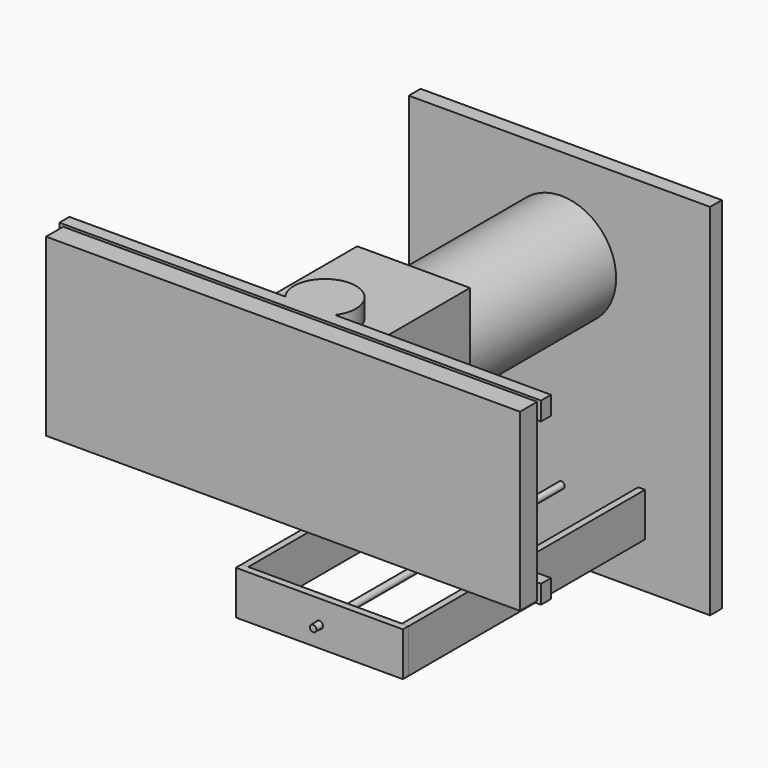
from build123d import *

# Parameters (mm, degrees)
F0_W      = 103.5620048642
F0_H      = 123.6062645912
F1_DEPTH  = 5.08
F2_R      = 18.8091173836
F3_DEPTH  = 63.5
F4_W      = 38.7522298843
F4_H      = 49.1084344685
F5_DEPTH  = 38.1
F6_W      = 2.3384951055
F6_H      = 15.0331929326
F7_DEPTH  = 101.6
F8_W      = 2.4352195215
F8_H      = 15.0823108852
F9_DEPTH  = 57.4294
F11_D     = 2.54
F13_DEPTH = 6.35
F15_DEPTH = 6.35
F16_W     = 165.5515879393
F16_H     = 4.3119760611
F17_DEPTH = 6.35
F18_W     = 165.5515879393
F18_H     = 4.3119760611
F19_DEPTH = 6.35
F20_W     = 162.9079505801
F20_H     = 60.2563126013
F21_DEPTH = 7.366
F22_R     = 1.1452971847
F23_DEPTH = 106.68


with BuildPart() as f1:
    # F0 (on Front) → F1 (new body)
    with BuildSketch(Plane.XZ):
        with Locations((-0.6681419909, -3.6747828126)):
            Rectangle(F0_W, F0_H)
    extrude(amount=F1_DEPTH)

    # F6 (on face) → F7 (join)
    with BuildSketch(Plane.XZ.offset(5.08)):
        with Locations((-27.5608561933, -42.2599799931)):
            Rectangle(F6_W, F6_H)
        with Locations((27.5608561933, -42.2599799931)):
            Rectangle(F6_W, F6_H)
    extrude(amount=F7_DEPTH)

    # F22 (on face) → F23 (join)
    with BuildSketch(Plane.XZ.offset(5.08)):
        with Locations((0, -42.667184025)):
            Circle(F22_R)
    extrude(amount=F23_DEPTH)


with BuildPart() as f3:
    # F2 (on face) → F3 (new body)
    with BuildSketch(Plane.XZ.offset(5.08)):
        with Locations((0, 26.0575376451)):
            Circle(F2_R)
    extrude(amount=F3_DEPTH)


with BuildPart() as f5:
    # F4 (on face) → F5 (new body)
    with BuildSketch(Plane.XZ.offset(68.58)):
        with Locations((-9.313e-07, 24.5542172343)):
            Rectangle(F4_W, F4_H)
    extrude(amount=F5_DEPTH)

    # F12 (on face) → F13 (join)
    with BuildSketch(Plane.XY.offset(49.1084344685)):
        with BuildLine():
            Line((-10.6464871968, -106.68), (10.6464853342, -106.68))
            ThreePointArc((10.6464853342, -106.68), (-9.313e-07, -96.0335137345), (-10.6464871968, -106.68))
        make_face()
        with BuildLine():
            ThreePointArc((-10.6464871968, -106.68), (-9.313e-07, -117.3264862655), (10.6464853342, -106.68))
            Line((10.6464853342, -106.68), (-10.6464871968, -106.68))
        make_face()
    extrude(amount=F13_DEPTH)

    # F14 (on face) → F15 (join)
    with BuildSketch(Plane(origin=(0, 0, 0), x_dir=(1, 0, 0), z_dir=(0, 0, -1))):
        with BuildLine():
            ThreePointArc((-10.6426009313, 106.68), (-9.313e-07, 96.0374), (10.6425990687, 106.68))
            Line((10.6425990687, 106.68), (-10.6426009313, 106.68))
        make_face()
        with BuildLine():
            Line((-10.6426009313, 106.68), (10.6425990687, 106.68))
            ThreePointArc((10.6425990687, 106.68), (-9.313e-07, 117.3226), (-10.6426009313, 106.68))
        make_face()
    extrude(amount=F15_DEPTH)

    # F16 (on face) → F17 (join)
    with BuildSketch(Plane.XY):
        with Locations((0, -115.1666119695)):
            Rectangle(F16_W, F16_H)
    extrude(amount=-F17_DEPTH)

    # F18 (on face) → F19 (join)
    with BuildSketch(Plane.XY.offset(55.4584344685)):
        with Locations((9.313e-07, -115.170498235)):
            Rectangle(F18_W, F18_H)
    extrude(amount=-F19_DEPTH)


with BuildPart() as f9:
    # F8 (on face) → F9 (new body)
    with BuildSketch(Plane.YZ.offset(28.7301037461)):
        with Locations((-107.8976097608, -42.2354210168)):
            Rectangle(F8_W, F8_H)
    extrude(amount=-F9_DEPTH)

    # F11 (through all)
    with Locations(Plane.XZ.offset(109.1152195215)):
        with Locations((0.0154037461, -42.6920428872)):
            Hole(F11_D / 2)


with BuildPart() as f21:
    # F20 (on face) → F21 (new body)
    with BuildSketch(Plane.XZ.offset(117.3226)):
        with Locations((0.0087954104, 24.5229438879)):
            Rectangle(F20_W, F20_H)
    extrude(amount=F21_DEPTH)


solid = Compound([f1.part, f3.part, f5.part, f9.part, f21.part])
